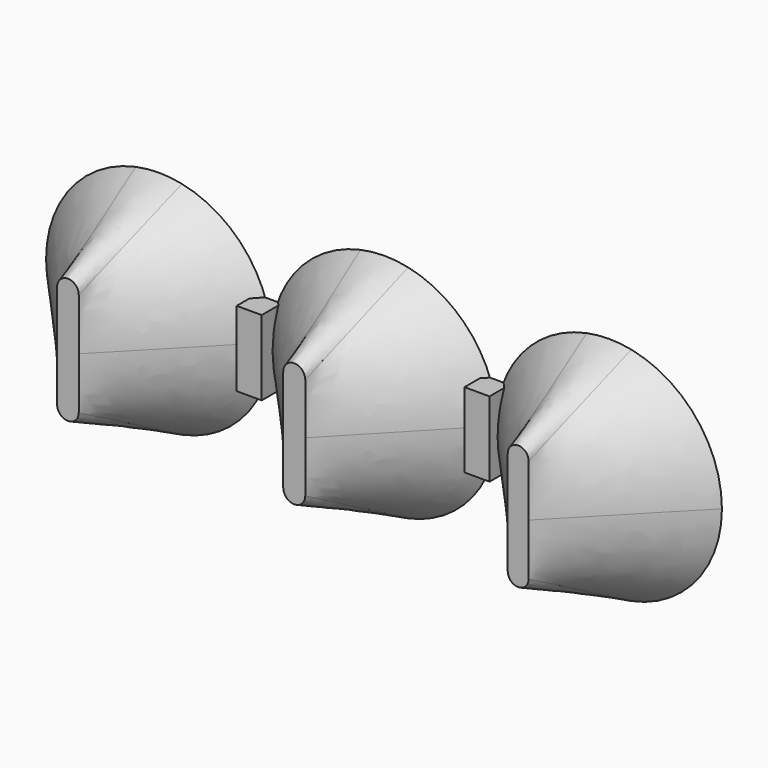
from build123d import *

# Parameters (mm, degrees)
SKETCH001_R  = 4.505883
SKETCH002_R  = 4.157663
SKETCH005_R  = 4.514229
SKETCH007_R  = 4.170362
SKETCH009_R  = 4.510212
SKETCH011_R  = 4.153649
BOX_W        = 1
BOX_H        = 1
BOX_DEPTH    = 3
BOX001_W     = 1
BOX001_H     = 1
BOX001_DEPTH = 3


with BuildPart() as body:
    # Sketch001 → AdditiveLoft section 0
    with BuildSketch(Plane.XZ):
        with Locations((-9.007039, 0)):
            Circle(SKETCH001_R)
    # Sketch003 (on DatumPlane) → AdditiveLoft section 1
    with BuildSketch(Plane.XZ.offset(4.5)):
        with BuildLine():
            ThreePointArc((-9.471652, -1.97382), (-9.039764, -2.405708), (-8.607876, -1.97382))
            Line((-8.607876, -1.97382), (-8.607876, 2.165107))
            ThreePointArc((-8.607876, 2.165107), (-9.039764, 2.596995), (-9.471652, 2.165107))
            Line((-9.471652, -1.97382), (-9.471652, 2.165107))
        make_face()
    loft()

    # Sketch002 → SubtractiveLoft section 0
    with BuildSketch(Plane.XZ):
        with Locations((-9.03385, 0)):
            Circle(SKETCH002_R)
    # Sketch004 (on DatumPlane) → SubtractiveLoft section 1
    with BuildSketch(Plane.XZ.offset(4)):
        with BuildLine():
            ThreePointArc((-9.146642, -1.950446), (-9.00189, -2.095198), (-8.857138, -1.950446))
            Line((-8.857138, -1.950446), (-8.857138, 1.909597))
            ThreePointArc((-8.857138, 1.909597), (-9.00189, 2.054349), (-9.146642, 1.909597))
            Line((-9.146642, -1.950446), (-9.146642, 1.909597))
        make_face()
    loft(mode=Mode.SUBTRACT)

    # Sketch005 → AdditiveLoft001 section 0
    with BuildSketch(Plane.XZ):
        Circle(SKETCH005_R)
    # Sketch006 (on DatumPlane) → AdditiveLoft001 section 1
    with BuildSketch(Plane.XZ.offset(4.5)):
        with BuildLine():
            ThreePointArc((-0.439914, -1.957138), (0, -2.397052), (0.439914, -1.957138))
            Line((0.439914, -1.957138), (0.439914, 2.122063))
            ThreePointArc((0.439914, 2.122063), (0, 2.561977), (-0.439914, 2.122063))
            Line((-0.439914, -1.957138), (-0.439914, 2.122063))
        make_face()
    loft()

    # Sketch007 → SubtractiveLoft001 section 0
    with BuildSketch(Plane.XZ):
        Circle(SKETCH007_R)
    # Sketch008 (on DatumPlane) → SubtractiveLoft001 section 1
    with BuildSketch(Plane.XZ.offset(4)):
        with BuildLine():
            ThreePointArc((-0.208831, -2.021076), (0, -2.229907), (0.208831, -2.021076))
            Line((0.208831, -2.021076), (0.208831, 1.887047))
            ThreePointArc((0.208831, 1.887047), (0, 2.095878), (-0.208831, 1.887047))
            Line((-0.208831, -2.021076), (-0.208831, 1.887047))
        make_face()
    loft(mode=Mode.SUBTRACT)

    # Sketch009 → AdditiveLoft002 section 0
    with BuildSketch(Plane.XZ):
        with Locations((8.972085, 0)):
            Circle(SKETCH009_R)
    # Sketch010 (on DatumPlane) → AdditiveLoft002 section 1
    with BuildSketch(Plane.XZ.offset(4.5)):
        with BuildLine():
            ThreePointArc((8.527374, -1.981901), (8.945036, -2.399563), (9.362698, -1.981901))
            Line((9.362698, -1.981901), (9.362698, 2.164886))
            ThreePointArc((9.362698, 2.164886), (8.945036, 2.582548), (8.527374, 2.164886))
            Line((8.527374, -1.981901), (8.527374, 2.164886))
        make_face()
    loft()

    # Sketch011 → SubtractiveLoft002 section 0
    with BuildSketch(Plane.XZ):
        with Locations((9.027996, 0)):
            Circle(SKETCH011_R)
    # Sketch012 (on DatumPlane) → SubtractiveLoft002 section 1
    with BuildSketch(Plane.XZ.offset(4)):
        with BuildLine():
            ThreePointArc((8.740006, -1.990848), (8.97867, -2.229512), (9.217334, -1.990848))
            Line((9.217334, -1.990848), (9.217334, 1.947109))
            ThreePointArc((9.217334, 1.947109), (8.97867, 2.185773), (8.740006, 1.947109))
            Line((8.740006, -1.990848), (8.740006, 1.947109))
        make_face()
    loft(mode=Mode.SUBTRACT)


with BuildPart() as cube:
    # Box → Box (new body)
    with BuildSketch(Plane(origin=(-5.1, -1, -1.5), x_dir=(1, 0, 0), z_dir=(0, 0, 1))):
        with Locations((0.5, 0.5)):
            Rectangle(BOX_W, BOX_H)
    extrude(amount=BOX_DEPTH)


with BuildPart() as cube001:
    # Box001 → Box001 (new body)
    with BuildSketch(Plane(origin=(4, -1, -1.4), x_dir=(1, 0, 0), z_dir=(0, 0, 1))):
        with Locations((0.5, 0.5)):
            Rectangle(BOX001_W, BOX001_H)
    extrude(amount=BOX001_DEPTH)


solid = Compound([body.part, cube.part, cube001.part])
